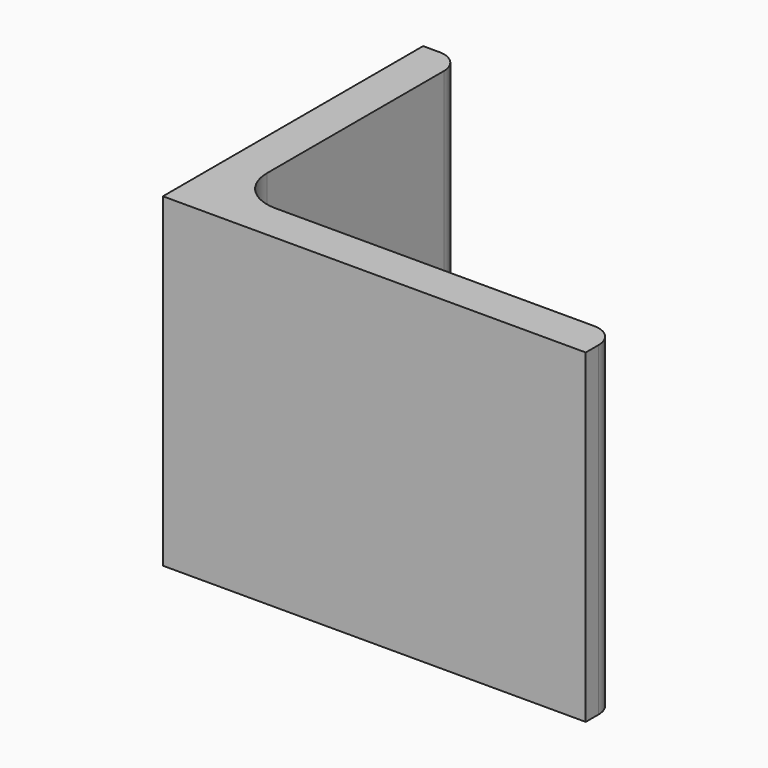
from build123d import *

# Parameters (mm, degrees)
EXTRUDE_DEPTH = 50


with BuildPart() as part:
    # Sketch → Extrude (new body)
    with BuildSketch(Plane.XY):
        with BuildLine():
            Line((0, 0), (65, 0))
            Line((65, 0), (65, 2.5))
            ThreePointArc((65, 2.5), (63.974874, 4.974874), (61.5, 6))
            Line((61.5, 6), (12.5, 6))
            ThreePointArc((6, 12.5), (7.903806, 7.903806), (12.5, 6))
            Line((6, 46.5), (6, 12.5))
            ThreePointArc((6, 46.5), (4.974874, 48.974874), (2.5, 50))
            Line((0, 50), (2.5, 50))
            Line((0, 0), (0, 50))
        make_face()
    extrude(amount=EXTRUDE_DEPTH)


solid = part.part
